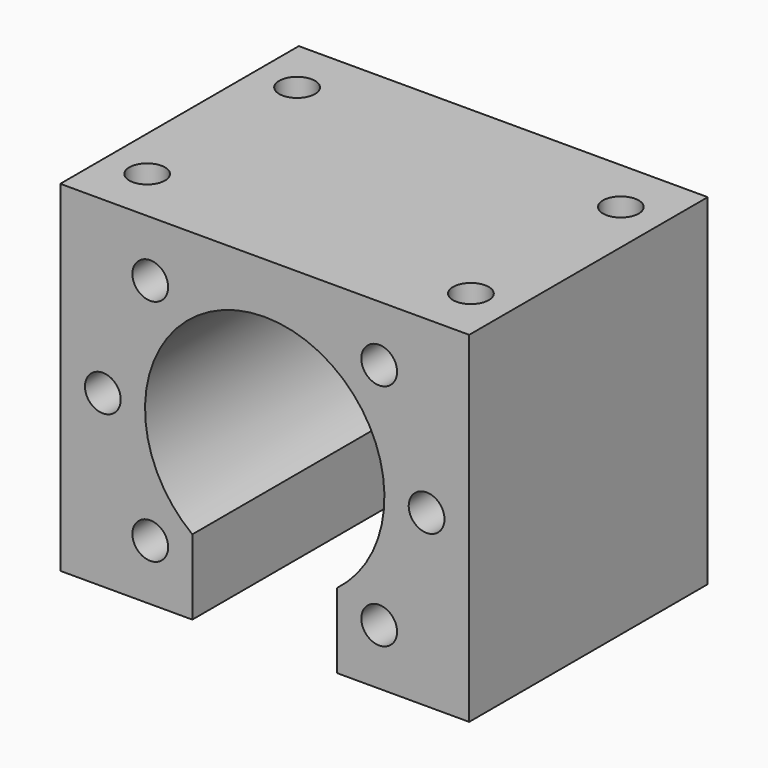
from build123d import *

# Parameters (mm, degrees)
F1_DEPTH = 17.5
F3_D     = 4.2
F3_DEPTH = 20
F3_TIP   = 1.2618073
F5_D     = 4.2
F5_DEPTH = 17
F5_TIP   = 1.2618073


with BuildPart() as f1:
    # F0 (on Front) → F1 (new body, symmetric)
    with BuildSketch(Plane.XZ):
        with BuildLine():
            Line((24, -20), (24, 20))
            Line((24, 20), (-24, 20))
            Line((-24, 20), (-24, -20))
            Line((-24, -20), (-8.5, -20))
            Line((-8.5, -20), (-8.5, -11.187157816))
            ThreePointArc((-8.5, -11.187157816), (0, 14.05), (8.5, -11.187157816))
            Line((8.5, -11.187157816), (8.5, -20))
            Line((8.5, -20), (24, -20))
        make_face()
    extrude(amount=F1_DEPTH, both=True)

    # F3
    with Locations(Plane.XZ.offset(17.5)):
        with Locations((-13.4350288425, 13.4350288425), (-19, 0), (-13.4350288425, -13.4350288425), (13.4350288425, -13.4350288425), (19, 0), (13.4350288425, 13.4350288425)):
            Hole(F3_D / 2, depth=F3_DEPTH)
            with Locations((0, 0, -(F3_DEPTH + F3_TIP / 2))):  # 118° drill point
                Cone(0, F3_D / 2, F3_TIP, mode=Mode.SUBTRACT)

    # F5
    with Locations(Plane.XY.offset(20)):
        with Locations((-19, 11), (-19, -11), (19, -11), (19, 11)):
            Hole(F5_D / 2, depth=F5_DEPTH)
            with Locations((0, 0, -(F5_DEPTH + F5_TIP / 2))):  # 118° drill point
                Cone(0, F5_D / 2, F5_TIP, mode=Mode.SUBTRACT)


solid = f1.part
